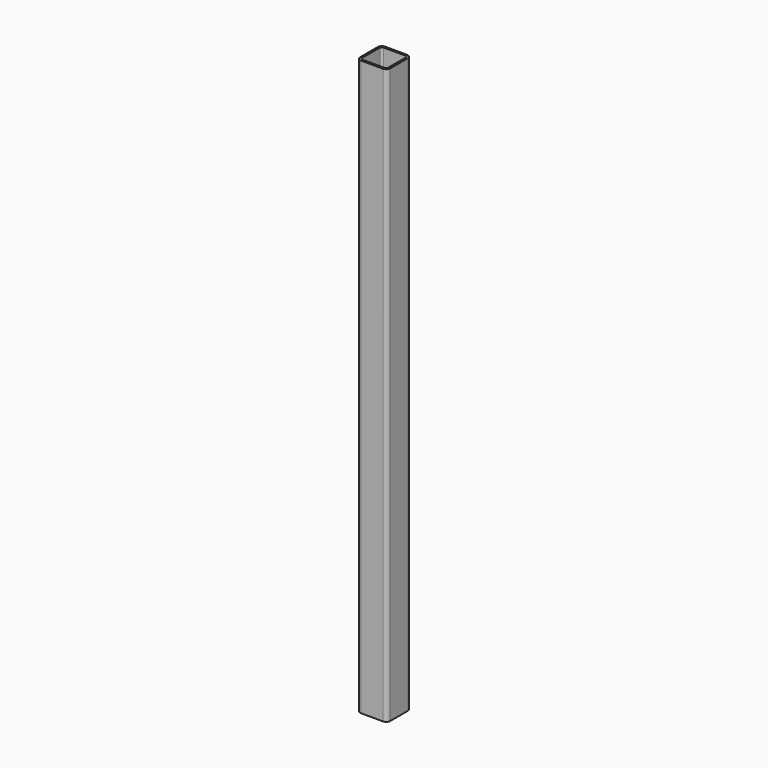
from build123d import *

# Parameters (mm, degrees)
F0_W     = 60
F0_H     = 60
F1_DEPTH = 1140
F2_R     = 8
F3_T     = -4


with BuildPart() as f1:
    # F0 (on Top) → F1 (new body)
    with BuildSketch(Plane.XY):
        Rectangle(F0_W, F0_H)
    extrude(amount=F1_DEPTH)

    # F2
    f2_edges = [f1.edges().sort_by_distance(p)[0] for p in [
        (-30, -30, 570),
        (-30, 30, 570),
        (30, -30, 570),
        (30, 30, 570),
    ]]
    fillet(f2_edges, radius=F2_R)

    # F3
    f3_openings = [f1.faces().sort_by_distance(p)[0] for p in [
        (0, 0, 1140),
        (0, 0, 0),
    ]]
    offset(amount=F3_T, openings=f3_openings)


solid = f1.part
